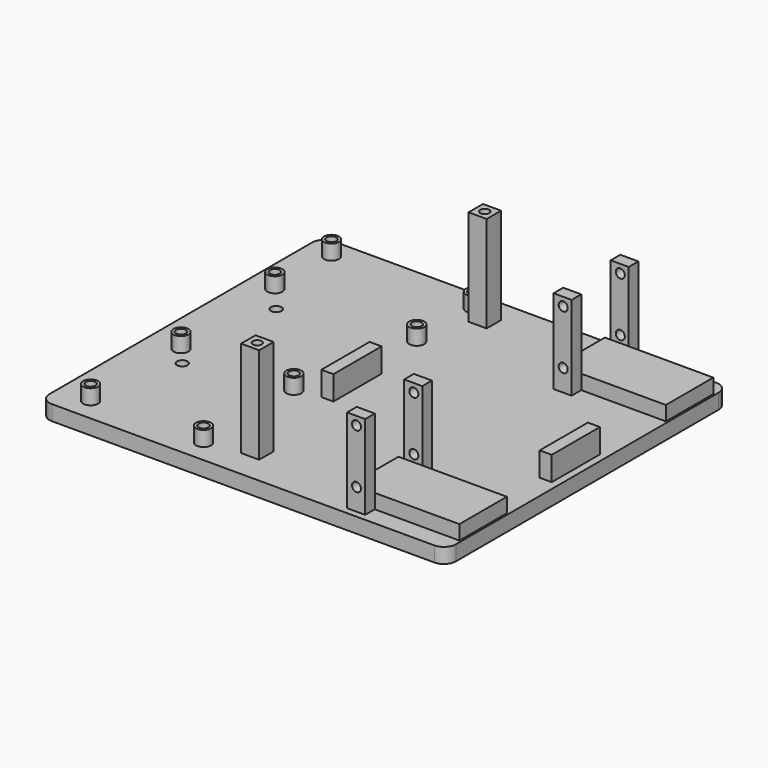
from build123d import *

# Parameters (mm, degrees)
SKETCH_W      = 135
SKETCH_H      = 117
SKETCH_R      = 1.75
PAD_DEPTH     = 5
SKETCH001_W   = 36
SKETCH001_H   = 19.7
PAD001_DEPTH  = 4.8
SKETCH002_W   = 6
SKETCH002_H   = 28
SKETCH002_R   = 1.5
PAD002_DEPTH  = 4
SKETCH003_W   = 6
SKETCH003_H   = 28
SKETCH003_R   = 1.5
PAD003_DEPTH  = 4
SKETCH004_W   = 6
SKETCH004_H   = 28
SKETCH004_R   = 1.5
PAD004_DEPTH  = 4
SKETCH005_W   = 6
SKETCH005_H   = 28
SKETCH005_R   = 1.5
PAD005_DEPTH  = 4
SKETCH006_R   = 2.5
SKETCH006_R_2 = 1.65
PAD006_DEPTH  = 5
SKETCH007_W   = 4
SKETCH007_H   = 20
PAD007_DEPTH  = 8
SKETCH009_W   = 6
SKETCH009_H   = 6
SKETCH009_R   = 1.5
PAD009_DEPTH  = 32
FILLET_R      = 4


with BuildPart() as part:
    # Sketch → Pad (new body)
    with BuildSketch(Plane.XY):
        Rectangle(SKETCH_W, SKETCH_H)
        with Locations((-51.402592, 19.5)):
            Circle(SKETCH_R, mode=Mode.SUBTRACT)
        with Locations((-51.402592, -19.5)):
            Circle(SKETCH_R, mode=Mode.SUBTRACT)
    extrude(amount=-PAD_DEPTH)

    # Sketch001 (on Face7 of Pad) → Pad001 (join)
    with BuildSketch(Plane.XY):
        with Locations((48.9, 43.23)):
            Rectangle(SKETCH001_W, SKETCH001_H)
        with Locations((48.9, -42.47)):
            Rectangle(SKETCH001_W, SKETCH001_H)
    extrude(amount=PAD001_DEPTH)

    # Sketch002 (on Face9 of Pad001) → Pad002 (join)
    with BuildSketch(Plane.XZ.offset(52.32)):
        with Locations((35.8, 14)):
            Rectangle(SKETCH002_W, SKETCH002_H)
        with Locations((35.92, 25.2)):
            Circle(SKETCH002_R, mode=Mode.SUBTRACT)
        with Locations((35.92, 7.2)):
            Circle(SKETCH002_R, mode=Mode.SUBTRACT)
    extrude(amount=PAD002_DEPTH)

    # Sketch003 (on Face14 of Pad002) → Pad003 (join)
    with BuildSketch(Plane(origin=(0, -32.62, 0), x_dir=(-1, 0, 0), z_dir=(0, 1, 0))):
        with Locations((-35.8, 14)):
            Rectangle(SKETCH003_W, SKETCH003_H)
        with Locations((-36, 25.2)):
            Circle(SKETCH003_R, mode=Mode.SUBTRACT)
        with Locations((-36, 7.2)):
            Circle(SKETCH003_R, mode=Mode.SUBTRACT)
    extrude(amount=PAD003_DEPTH)

    # Sketch004 (on Face22 of Pad003) → Pad004 (join)
    with BuildSketch(Plane.XZ.offset(-33.38)):
        with Locations((35.8, 14)):
            Rectangle(SKETCH004_W, SKETCH004_H)
        with Locations((36, 25.2)):
            Circle(SKETCH004_R, mode=Mode.SUBTRACT)
        with Locations((36, 7.2)):
            Circle(SKETCH004_R, mode=Mode.SUBTRACT)
    extrude(amount=PAD004_DEPTH)

    # Sketch005 (on Face27 of Pad004) → Pad005 (join)
    with BuildSketch(Plane(origin=(0, 53.08, 0), x_dir=(-1, 0, 0), z_dir=(0, 1, 0))):
        with Locations((-35.8, 14)):
            Rectangle(SKETCH005_W, SKETCH005_H)
        with Locations((-36, 25.2)):
            Circle(SKETCH005_R, mode=Mode.SUBTRACT)
        with Locations((-36, 7.2)):
            Circle(SKETCH005_R, mode=Mode.SUBTRACT)
    extrude(amount=PAD005_DEPTH)

    # Sketch006 (on Face4 of Pad005) → Pad006 (join)
    with BuildSketch(Plane.XY):
        with Locations((-11.605191, 51.606171)):
            Circle(SKETCH006_R)
        with Locations((-11.605191, 51.606171)):
            Circle(SKETCH006_R_2, mode=Mode.SUBTRACT)
        with Locations((-58.73457, 51.606171)):
            Circle(SKETCH006_R)
        with Locations((-58.73457, 51.606171)):
            Circle(SKETCH006_R_2, mode=Mode.SUBTRACT)
        with Locations((-58.73457, 28.106171)):
            Circle(SKETCH006_R)
        with Locations((-58.73457, 28.106171)):
            Circle(SKETCH006_R_2, mode=Mode.SUBTRACT)
        with Locations((-11.605191, 28.106171)):
            Circle(SKETCH006_R)
        with Locations((-11.605191, 28.106171)):
            Circle(SKETCH006_R_2, mode=Mode.SUBTRACT)
        with Locations((-19.259457, -13.335944)):
            Circle(SKETCH006_R)
        with Locations((-19.259457, -13.335944)):
            Circle(SKETCH006_R_2, mode=Mode.SUBTRACT)
        with Locations((-56.759457, -13.335944)):
            Circle(SKETCH006_R)
        with Locations((-56.759457, -13.335944)):
            Circle(SKETCH006_R_2, mode=Mode.SUBTRACT)
        with Locations((-56.759457, -50.835944)):
            Circle(SKETCH006_R)
        with Locations((-56.759457, -50.835944)):
            Circle(SKETCH006_R_2, mode=Mode.SUBTRACT)
        with Locations((-19.259457, -50.835944)):
            Circle(SKETCH006_R)
        with Locations((-19.259457, -50.835944)):
            Circle(SKETCH006_R_2, mode=Mode.SUBTRACT)
    extrude(amount=PAD006_DEPTH)

    # Sketch007 (on Face4 of Pad006) → Pad007 (join)
    with BuildSketch(Plane.XY):
        with Locations((63.12, -1.77)):
            Rectangle(SKETCH007_W, SKETCH007_H)
        with Locations((-9.38, -1.77)):
            Rectangle(SKETCH007_W, SKETCH007_H)
    extrude(amount=PAD007_DEPTH)

    # Sketch009 (on Face4 of Pad007) → Pad009 (join)
    with BuildSketch(Plane.XY):
        with Locations((-5, 48.093207)):
            Rectangle(SKETCH009_W, SKETCH009_H)
        with Locations((-5, 48.093207)):
            Circle(SKETCH009_R, mode=Mode.SUBTRACT)
        with Locations((-5, -46.319558)):
            Rectangle(SKETCH009_W, SKETCH009_H)
        with Locations((-5, -46.319558)):
            Circle(SKETCH009_R, mode=Mode.SUBTRACT)
    extrude(amount=PAD009_DEPTH)

    # Fillet
    fillet_edges = [part.edges().sort_by_distance(p)[0] for p in [
        (-67.5, -58.5, -2.5),
        (-67.5, 58.5, -2.5),
        (67.5, -58.5, -2.5),
        (67.5, 58.5, -2.5),
    ]]
    fillet(fillet_edges, radius=FILLET_R)


with BuildPart() as part_1:
    # Body placement: moved
    add(part.part.moved(Location((0, 0, -5))))


solid = part_1.part
